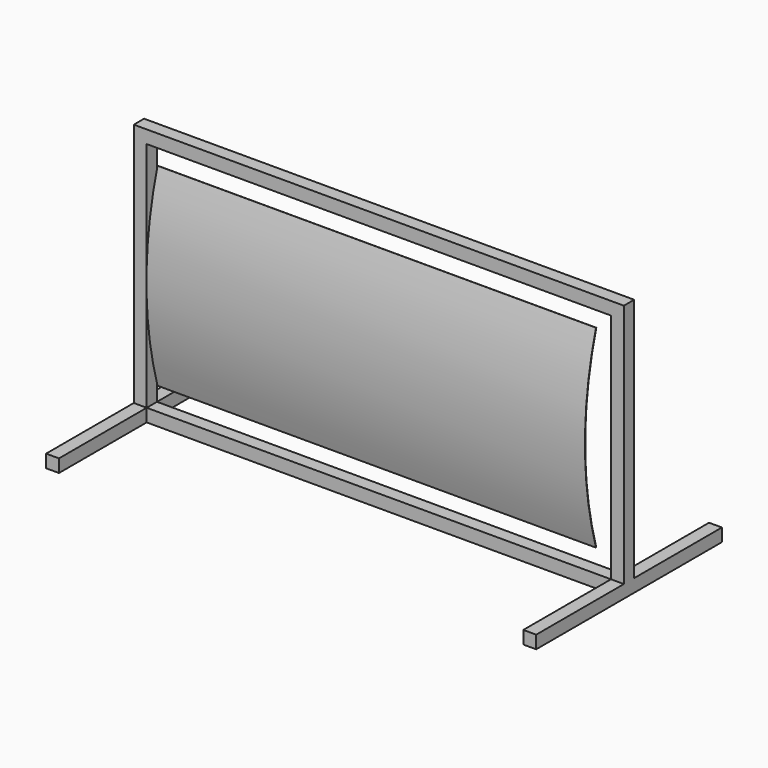
from build123d import *

# Parameters (mm, degrees)
F1_DEPTH      = 50.8
F1_DEPTH_BACK = 50.8
F2_W          = 101.6
F2_H          = 101.6
F3_DEPTH      = 914.4
F3_DEPTH_BACK = 914.4
F5_DEPTH      = 1727.2
F5_DEPTH_BACK = 1727.2


with BuildPart() as f1:
    # F0 (on Front) → F1 (new body, two sides)
    with BuildSketch(Plane.XZ) as f1_sk:
        Polygon((-1930.4, 0), (0, 0), (0, 101.6), (-1828.8, 101.6), (-1828.8, 1930.4), (0, 1930.4), (0, 2032), (-1930.4, 2032), align=None)
        Polygon((0, 101.6), (0, 0), (1930.4, 0), (1930.4, 2032), (0, 2032), (0, 1930.4), (1828.8, 1930.4), (1828.8, 101.6), align=None)
    extrude(amount=F1_DEPTH)
    extrude(f1_sk.sketch, amount=-F1_DEPTH_BACK)

    # F2 (on Front) → F3 (join, two sides)
    with BuildSketch(Plane.XZ) as f3_sk:
        with Locations((1879.6, 50.8)):
            Rectangle(F2_W, F2_H)
        with Locations((-1879.6, 50.8)):
            Rectangle(F2_W, F2_H)
    extrude(amount=F3_DEPTH)
    extrude(f3_sk.sketch, amount=-F3_DEPTH_BACK)


with BuildPart() as f5:
    # F4 (on Right) → F5 (new body, two sides)
    with BuildSketch(Plane.YZ) as f5_sk:
        with BuildLine():
            ThreePointArc((-68.821303, 296.591962), (-178.066035, 1058.591962), (-68.821303, 1820.591962))
            Line((-68.821303, 1820.591962), (-71.015224, 1821.234229))
            ThreePointArc((-71.015224, 1821.234229), (-180.352035, 1058.591962), (-71.015224, 295.949694))
            Line((-71.015224, 295.949694), (-68.821303, 296.591962))
        make_face()
    extrude(amount=F5_DEPTH)
    extrude(f5_sk.sketch, amount=-F5_DEPTH_BACK)


solid = Compound([f1.part, f5.part])
